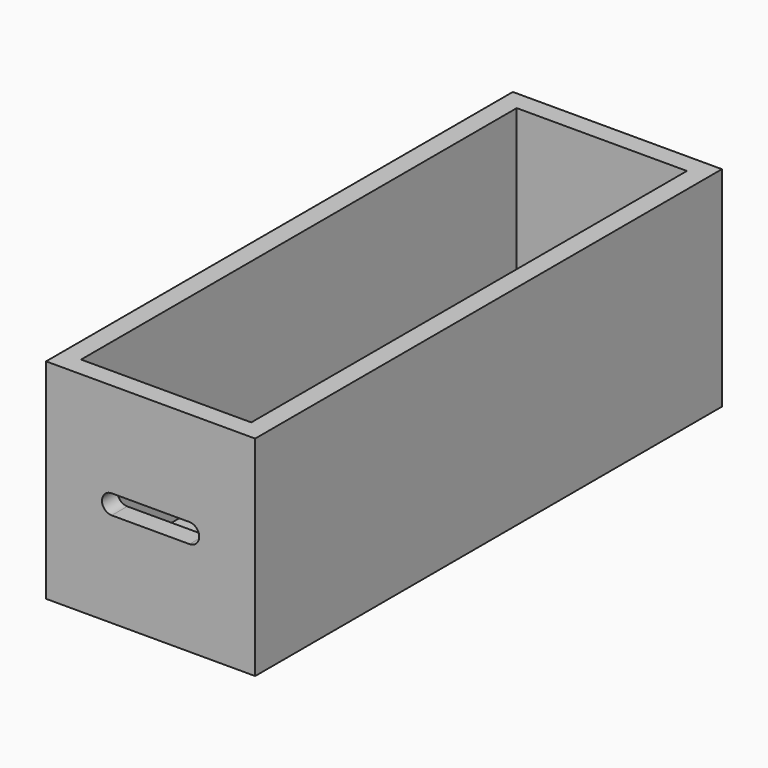
from build123d import *

# Parameters (mm, degrees)
F0_W     = 215
F0_H     = 215
F1_DEPTH = 600
F2_T     = -20
F4_DEPTH = 20


with BuildPart() as f1:
    # F0 (on Front) → F1 (new body)
    with BuildSketch(Plane.XZ):
        Rectangle(F0_W, F0_H)
    extrude(amount=F1_DEPTH)

    # F2
    f2_openings = [f1.faces().sort_by_distance(p)[0] for p in [
        (0, -300, 107.5),
    ]]
    offset(amount=F2_T, openings=f2_openings)

    # F3 (on face) → F4 (cut, through all)
    with BuildSketch(Plane.XZ.offset(600)):
        with BuildLine():
            Line((-40, -10), (40, -10))
            ThreePointArc((40, -10), (50, 0), (40, 10))
            Line((40, 10), (-40, 10))
            ThreePointArc((-40, 10), (-50, 0), (-40, -10))
        make_face()
    extrude(amount=-F4_DEPTH, mode=Mode.SUBTRACT)


solid = f1.part
